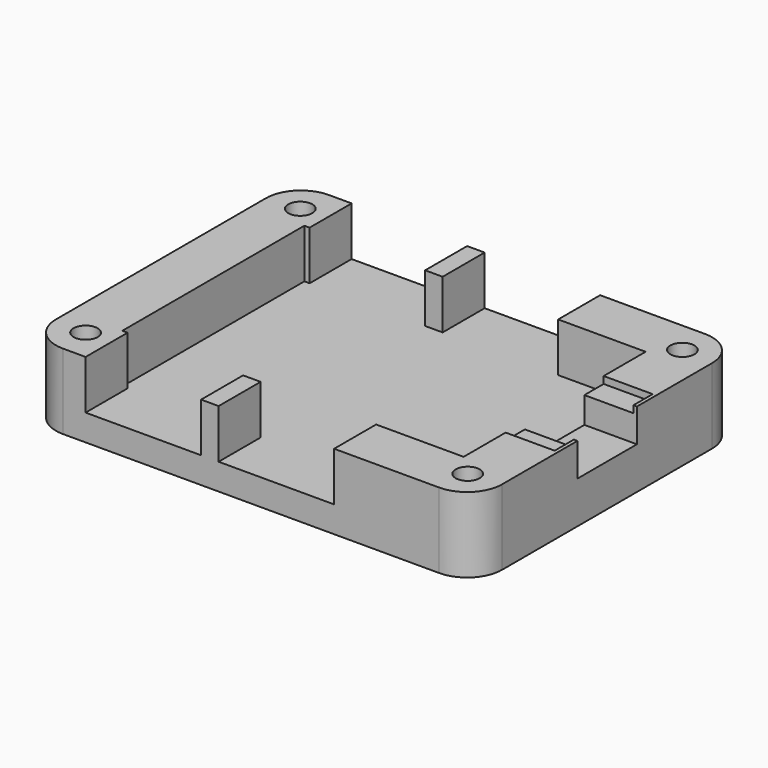
from build123d import *

# Parameters (mm, degrees)
F0_R     = 2.6
F0_W     = 13.2
F0_H     = 6
F0_W_2   = 5.6
F0_H_2   = 8.5
F0_R_2   = 1.55
F0_H_3   = 2.75
F0_W_3   = 2
F0_R_3   = 1.375
F0_W_4   = 0.4
F1_DEPTH = 3
F2_DEPTH = 8.6
F3_DEPTH = 7.8
F4_DEPTH = 4.8


with BuildPart() as f1:
    # F0 (on Top) → F1 (new body)
    with BuildSketch(Plane.XY):
        Polygon((19.5, 13), (9.5, 13), (-3.7, 13), (-5.7, 13), (-18.9, 13), (-19.5, 13), (-19.5, -13), (-18.9, -13), (-5.7, -13), (-3.7, -13), (9.5, -13), (19.5, -13), (19.5, -7), (19.5, -4.25), (19.5, 4.25), (19.5, 7), align=None)
        with BuildLine():
            Line((-18.9, 13), (-18.9, 19))
            Line((-18.9, 19), (-21.5, 19))
            ThreePointArc((-21.5, 19), (-24.3284271247, 17.8284271247), (-25.5, 15))
            Line((-25.5, 15), (-25.5, -15))
            ThreePointArc((-25.5, -15), (-24.3284271247, -17.8284271247), (-21.5, -19))
            Line((-21.5, -19), (-18.9, -19))
            Line((-18.9, -19), (-18.9, -13))
            Line((-18.9, -13), (-19.5, -13))
            Line((-19.5, -13), (-19.5, 13))
            Line((-19.5, 13), (-18.9, 13))
        make_face()
        with Locations((-21.8334523779, -15.3334523779)):
            Circle(F0_R, mode=Mode.SUBTRACT)
        with Locations((-21.8334523779, 15.3334523779)):
            Circle(F0_R, mode=Mode.SUBTRACT)
        with BuildLine():
            Line((25.5, -15), (25.5, -7))
            Line((25.5, -7), (25.1, -7))
            Line((25.1, -7), (19.5, -7))
            Line((19.5, -7), (19.5, -13))
            Line((19.5, -13), (9.5, -13))
            Line((9.5, -13), (9.5, -19))
            Line((9.5, -19), (21.5, -19))
            ThreePointArc((21.5, -19), (24.3284271247, -17.8284271247), (25.5, -15))
        make_face()
        with Locations((21.8334523779, -15.3334523779)):
            Circle(F0_R, mode=Mode.SUBTRACT)
        with BuildLine():
            ThreePointArc((25.5, 15), (24.3284271247, 17.8284271247), (21.5, 19))
            Line((21.5, 19), (9.5, 19))
            Line((9.5, 19), (9.5, 13))
            Line((9.5, 13), (19.5, 13))
            Line((19.5, 13), (19.5, 7))
            Line((19.5, 7), (25.1, 7))
            Line((25.1, 7), (25.5, 7))
            Line((25.5, 7), (25.5, 15))
        make_face()
        with Locations((21.8334523779, 15.3334523779)):
            Circle(F0_R, mode=Mode.SUBTRACT)
        with Locations((-12.3, -16)):
            Rectangle(F0_W, F0_H)
        with Locations((2.9, 16)):
            Rectangle(F0_W, F0_H)
        with Locations((-12.3, 16)):
            Rectangle(F0_W, F0_H)
        with Locations((2.9, -16)):
            Rectangle(F0_W, F0_H)
        with Locations((22.3, 0)):
            Rectangle(F0_W_2, F0_H_2)
        with Locations((-21.8334523779, -15.3334523779)):
            Circle(F0_R)
        with Locations((-21.8334523779, -15.3334523779)):
            Circle(F0_R_2, mode=Mode.SUBTRACT)
        with Locations((21.8334523779, 15.3334523779)):
            Circle(F0_R)
        with Locations((21.8334523779, 15.3334523779)):
            Circle(F0_R_2, mode=Mode.SUBTRACT)
        with Locations((-21.8334523779, 15.3334523779)):
            Circle(F0_R)
        with Locations((-21.8334523779, 15.3334523779)):
            Circle(F0_R_2, mode=Mode.SUBTRACT)
        with Locations((21.8334523779, -15.3334523779)):
            Circle(F0_R)
        with Locations((21.8334523779, -15.3334523779)):
            Circle(F0_R_2, mode=Mode.SUBTRACT)
        with Locations((22.3, 5.625)):
            Rectangle(F0_W_2, F0_H_3)
        with Locations((22.3, -5.625)):
            Rectangle(F0_W_2, F0_H_3)
        with Locations((-4.7, -16)):
            Rectangle(F0_W_3, F0_H)
        with Locations((-4.7, 16)):
            Rectangle(F0_W_3, F0_H)
        with Locations((21.8334523779, 15.3334523779)):
            Circle(F0_R_2)
        with Locations((21.8334523779, 15.3334523779)):
            Circle(F0_R_3, mode=Mode.SUBTRACT)
        with Locations((-21.8334523779, -15.3334523779)):
            Circle(F0_R_2)
        with Locations((-21.8334523779, -15.3334523779)):
            Circle(F0_R_3, mode=Mode.SUBTRACT)
        with Locations((21.8334523779, -15.3334523779)):
            Circle(F0_R_2)
        with Locations((21.8334523779, -15.3334523779)):
            Circle(F0_R_3, mode=Mode.SUBTRACT)
        with Locations((-21.8334523779, 15.3334523779)):
            Circle(F0_R_2)
        with Locations((-21.8334523779, 15.3334523779)):
            Circle(F0_R_3, mode=Mode.SUBTRACT)
        with Locations((-21.8334523779, -15.3334523779)):
            Circle(F0_R_3)
        with Locations((-21.8334523779, 15.3334523779)):
            Circle(F0_R_3)
        with Locations((21.8334523779, -15.3334523779)):
            Circle(F0_R_3)
        with Locations((21.8334523779, 15.3334523779)):
            Circle(F0_R_3)
        with Locations((25.3, 0)):
            Rectangle(F0_W_4, F0_H_2)
        with Locations((25.3, 5.625)):
            Rectangle(F0_W_4, F0_H_3)
        with Locations((25.3, -5.625)):
            Rectangle(F0_W_4, F0_H_3)
    extrude(amount=F1_DEPTH)

    # F0 (on Top) → F2 (join)
    with BuildSketch(Plane.XY):
        with BuildLine():
            Line((-18.9, 13), (-18.9, 19))
            Line((-18.9, 19), (-21.5, 19))
            ThreePointArc((-21.5, 19), (-24.3284271247, 17.8284271247), (-25.5, 15))
            Line((-25.5, 15), (-25.5, -15))
            ThreePointArc((-25.5, -15), (-24.3284271247, -17.8284271247), (-21.5, -19))
            Line((-21.5, -19), (-18.9, -19))
            Line((-18.9, -19), (-18.9, -13))
            Line((-18.9, -13), (-19.5, -13))
            Line((-19.5, -13), (-19.5, 13))
            Line((-19.5, 13), (-18.9, 13))
        make_face()
        with Locations((-21.8334523779, -15.3334523779)):
            Circle(F0_R, mode=Mode.SUBTRACT)
        with Locations((-21.8334523779, 15.3334523779)):
            Circle(F0_R, mode=Mode.SUBTRACT)
        with BuildLine():
            ThreePointArc((25.5, 15), (24.3284271247, 17.8284271247), (21.5, 19))
            Line((21.5, 19), (9.5, 19))
            Line((9.5, 19), (9.5, 13))
            Line((9.5, 13), (19.5, 13))
            Line((19.5, 13), (19.5, 7))
            Line((19.5, 7), (25.1, 7))
            Line((25.1, 7), (25.5, 7))
            Line((25.5, 7), (25.5, 15))
        make_face()
        with Locations((21.8334523779, 15.3334523779)):
            Circle(F0_R, mode=Mode.SUBTRACT)
        with BuildLine():
            Line((25.5, -15), (25.5, -7))
            Line((25.5, -7), (25.1, -7))
            Line((25.1, -7), (19.5, -7))
            Line((19.5, -7), (19.5, -13))
            Line((19.5, -13), (9.5, -13))
            Line((9.5, -13), (9.5, -19))
            Line((9.5, -19), (21.5, -19))
            ThreePointArc((21.5, -19), (24.3284271247, -17.8284271247), (25.5, -15))
        make_face()
        with Locations((21.8334523779, -15.3334523779)):
            Circle(F0_R, mode=Mode.SUBTRACT)
        with Locations((21.8334523779, -15.3334523779)):
            Circle(F0_R)
        with Locations((21.8334523779, -15.3334523779)):
            Circle(F0_R_2, mode=Mode.SUBTRACT)
        with Locations((-21.8334523779, -15.3334523779)):
            Circle(F0_R)
        with Locations((-21.8334523779, -15.3334523779)):
            Circle(F0_R_2, mode=Mode.SUBTRACT)
        with Locations((-21.8334523779, 15.3334523779)):
            Circle(F0_R)
        with Locations((-21.8334523779, 15.3334523779)):
            Circle(F0_R_2, mode=Mode.SUBTRACT)
        with Locations((21.8334523779, 15.3334523779)):
            Circle(F0_R)
        with Locations((21.8334523779, 15.3334523779)):
            Circle(F0_R_2, mode=Mode.SUBTRACT)
        with Locations((-4.7, -16)):
            Rectangle(F0_W_3, F0_H)
        with Locations((-4.7, 16)):
            Rectangle(F0_W_3, F0_H)
        with Locations((21.8334523779, -15.3334523779)):
            Circle(F0_R_2)
        with Locations((21.8334523779, -15.3334523779)):
            Circle(F0_R_3, mode=Mode.SUBTRACT)
        with Locations((-21.8334523779, -15.3334523779)):
            Circle(F0_R_2)
        with Locations((-21.8334523779, -15.3334523779)):
            Circle(F0_R_3, mode=Mode.SUBTRACT)
        with Locations((-21.8334523779, 15.3334523779)):
            Circle(F0_R_2)
        with Locations((-21.8334523779, 15.3334523779)):
            Circle(F0_R_3, mode=Mode.SUBTRACT)
        with Locations((21.8334523779, 15.3334523779)):
            Circle(F0_R_2)
        with Locations((21.8334523779, 15.3334523779)):
            Circle(F0_R_3, mode=Mode.SUBTRACT)
        with Locations((25.3, 5.625)):
            Rectangle(F0_W_4, F0_H_3)
        with Locations((25.3, -5.625)):
            Rectangle(F0_W_4, F0_H_3)
    extrude(amount=F2_DEPTH)

    # F0 (on Top) → F3 (join)
    with BuildSketch(Plane.XY):
        with Locations((22.3, -5.625)):
            Rectangle(F0_W_2, F0_H_3)
        with Locations((22.3, 5.625)):
            Rectangle(F0_W_2, F0_H_3)
    extrude(amount=F3_DEPTH)

    # F0 (on Top) → F4 (join)
    with BuildSketch(Plane.XY):
        with Locations((22.3, 0)):
            Rectangle(F0_W_2, F0_H_2)
        with Locations((25.3, 0)):
            Rectangle(F0_W_4, F0_H_2)
    extrude(amount=F4_DEPTH)


solid = f1.part
